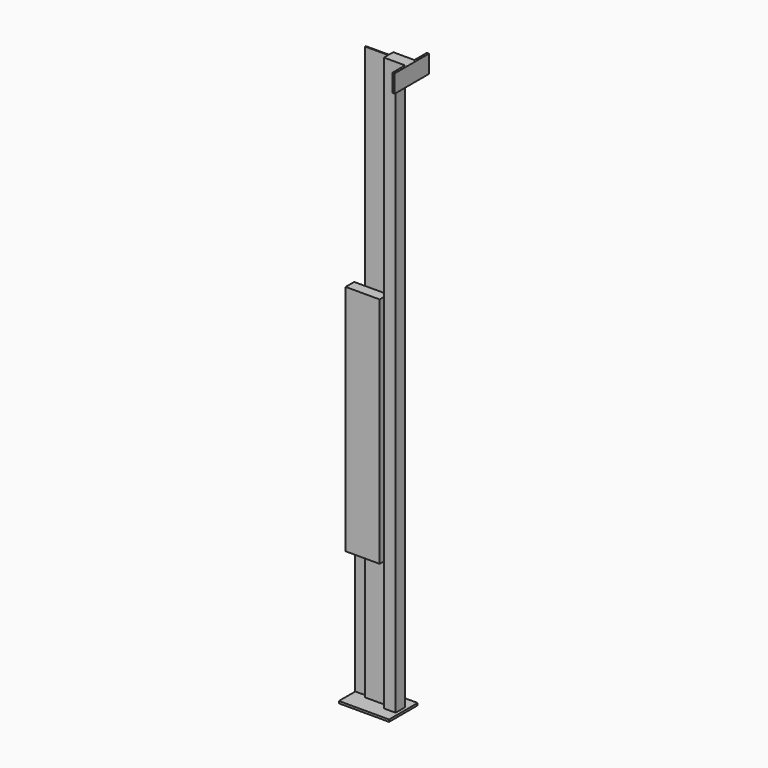
from build123d import *

# Parameters (mm, degrees)
F0_W      = 280
F0_H      = 200
F1_DEPTH  = 12
F2_W      = 65
F2_H      = 65
F3_DEPTH  = 3200
F4_W      = 65
F4_H      = 65
F5_DEPTH  = 53
F6_W      = 240
F6_H      = 100
F7_DEPTH  = 12
F8_W      = 130
F8_H      = 5
F9_DEPTH  = 3200
F10_W     = 190
F10_H     = 715
F11_DEPTH = 60
F12_W     = 190
F12_H     = 1300
F13_DEPTH = 60


with BuildPart() as f1:
    # F0 (on Top) → F1 (new body)
    with BuildSketch(Plane.XY):
        with Locations((-140, 100)):
            Rectangle(F0_W, F0_H)
    extrude(amount=F1_DEPTH)

    # F2 (on face) → F3 (join)
    with BuildSketch(Plane.XY.offset(12)):
        with Locations((-50, 100)):
            Rectangle(F2_W, F2_H)
    extrude(amount=F3_DEPTH)

    # F4 (on face) → F5 (join)
    with BuildSketch(Plane.YZ.offset(-17.5)):
        with Locations((100, 3179.5)):
            Rectangle(F4_W, F4_H)
    extrude(amount=F5_DEPTH)

    # F6 (on face) → F7 (join)
    with BuildSketch(Plane.YZ.offset(35.5)):
        with Locations((100, 3162)):
            Rectangle(F6_W, F6_H)
    extrude(amount=F7_DEPTH)

    # F8 (on face) → F9 (join)
    with BuildSketch(Plane.XY.offset(12)):
        with Locations((-147.5, 100)):
            Rectangle(F8_W, F8_H)
    extrude(amount=F9_DEPTH)

    # F10 (on face) → F11 (join)
    with BuildSketch(Plane(origin=(0, 102.5, 0), x_dir=(-1, 0, 0), z_dir=(0, 1, 0))):
        with Locations((177.5, 377.5)):
            Rectangle(F10_W, F10_H)
    extrude(amount=F11_DEPTH)

    # F12 (on face) → F13 (join)
    with BuildSketch(Plane.XZ.offset(-97.5)):
        with Locations((-177.5, 1385)):
            Rectangle(F12_W, F12_H)
    extrude(amount=F13_DEPTH)


solid = f1.part
